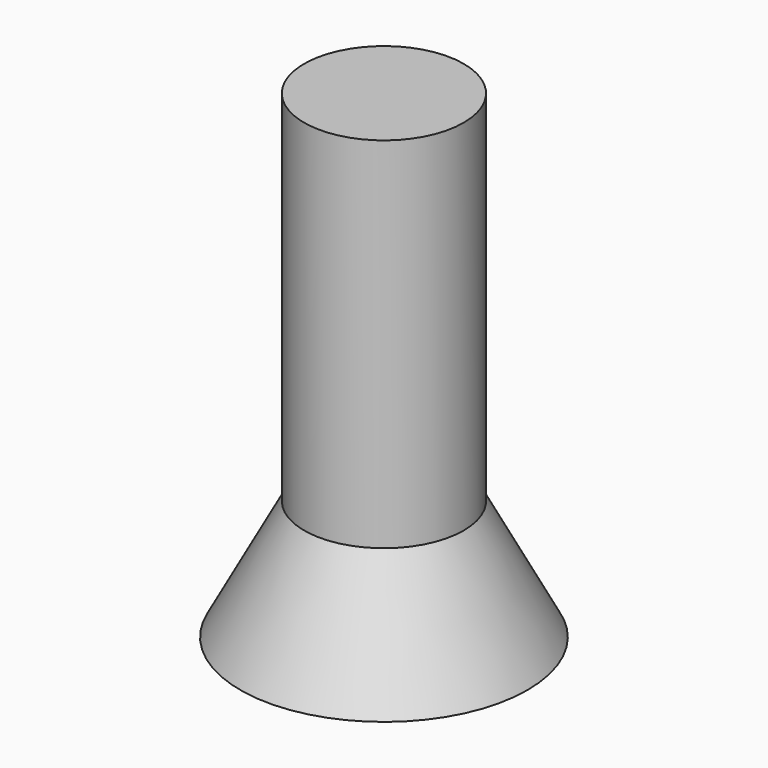
from build123d import *

# Parameters (mm, degrees)
F1_FACE_R = 25.4
F2_DEPTH  = 114.3


with BuildPart() as f1:
    # F0 (on Front) → F1 (revolve)
    with BuildSketch(Plane.XZ):
        Polygon((0, 38.1), (0, 0), (45.72, 0), (25.4, 38.1), align=None)
    revolve(axis=Axis((0, 0, 19.05), (0, 0, -1)))


with BuildPart() as f2:
    # F1_face (on face) → F2 (new body)
    with BuildSketch(Plane.XY.offset(38.1)):
        Circle(F1_FACE_R)
    extrude(amount=F2_DEPTH)


solid = Compound([f1.part, f2.part])
